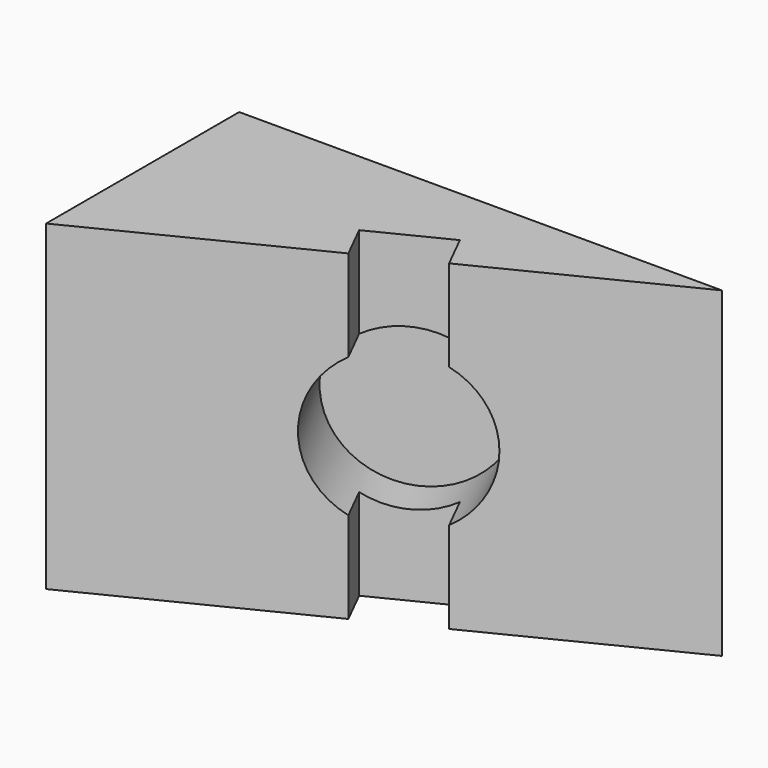
from build123d import *

# Parameters (mm, degrees)
F1_DEPTH = 101.6
F2_W     = 25.4
F2_H     = 101.6
F3_DEPTH = 12.7
F5_DEPTH = 25.4


with BuildPart() as f1:
    # F0 (on Top) → F1 (new body)
    with BuildSketch(Plane.XY):
        Polygon((152.4, 0), (0, 0), (0, -76.2), align=None)
    extrude(amount=F1_DEPTH)

    # F2 (on face) → F3 (cut)
    with BuildSketch(Plane(origin=(30.48, -60.96, 0), x_dir=(0.894427191, 0.4472135955, 0), z_dir=(0.4472135955, -0.894427191, 0))):
        with Locations((54.8223240229, 50.8)):
            Rectangle(F2_W, F2_H)
    extrude(amount=-F3_DEPTH, mode=Mode.SUBTRACT)

    # F4 (on face) → F5 (cut)
    with BuildSketch(Plane(origin=(30.48, -60.96, 0), x_dir=(0.894427191, 0.4472135955, 0), z_dir=(0.4472135955, -0.894427191, 0))):
        with BuildLine():
            ThreePointArc((67.5223240229, 28.8029547439), (76.819369279, 38.1), (80.2223240229, 50.8))
            ThreePointArc((80.2223240229, 50.8), (76.819369279, 63.5), (67.5223240229, 72.7970452561))
            Line((67.5223240229, 72.7970452561), (67.5223240229, 28.8029547439))
        make_face()
        with BuildLine():
            Line((67.5223240229, 28.8029547439), (67.5223240229, 72.7970452561))
            ThreePointArc((67.5223240229, 72.7970452561), (29.4223240229, 50.8), (67.5223240229, 28.8029547439))
        make_face()
    extrude(amount=-F5_DEPTH, mode=Mode.SUBTRACT)


solid = f1.part
